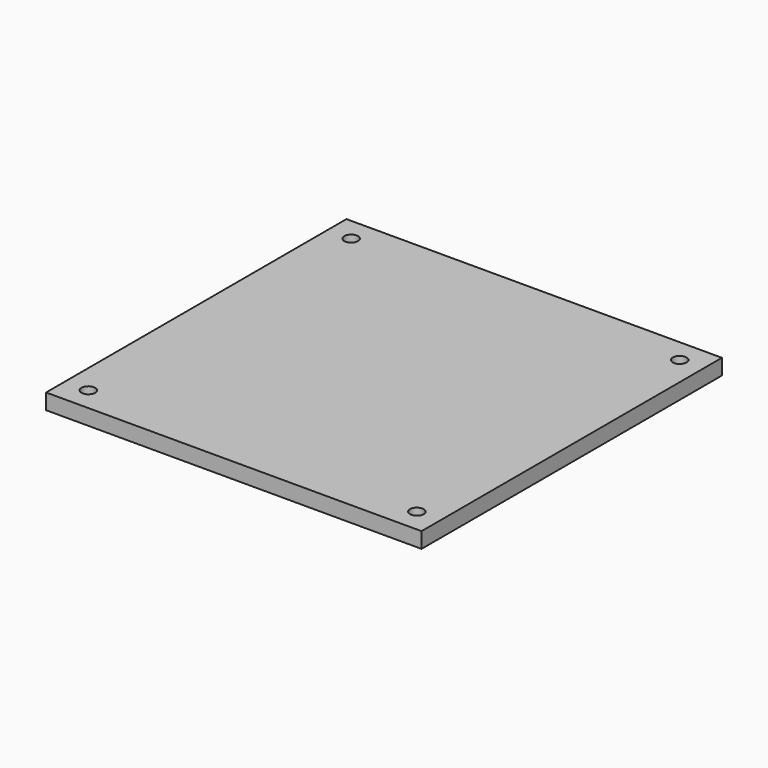
from build123d import *

# Parameters (mm, degrees)
F0_W     = 304.8
F0_H     = 304.8
F1_DEPTH = 12.7
F3_DEPTH = 12.7
F5_D     = 11.1125


with BuildPart() as f1:
    # F0 (on Top) → F1 (new body)
    with BuildSketch(Plane.XY):
        Rectangle(F0_W, F0_H)
    extrude(amount=F1_DEPTH)

    # F2 (on face) → F3 (join)
    with BuildSketch(Plane(origin=(0, 0, 0), x_dir=(1, 0, 0), z_dir=(0, 0, -1))):
        with BuildLine():
            Line((98.425, 104.775), (-98.425, 104.775))
            ThreePointArc((-98.425, 104.775), (-102.915128, 102.915128), (-104.775, 98.425))
            Line((-104.775, 98.425), (-104.775, -98.425))
            ThreePointArc((-104.775, -98.425), (-102.915128, -102.915128), (-98.425, -104.775))
            Line((-98.425, -104.775), (98.425, -104.775))
            ThreePointArc((98.425, -104.775), (102.915128, -102.915128), (104.775, -98.425))
            Line((104.775, -98.425), (104.775, 98.425))
            ThreePointArc((104.775, 98.425), (102.915128, 102.915128), (98.425, 104.775))
        make_face()
    extrude(amount=F3_DEPTH)

    # F5 (through all)
    with Locations(Plane.XY.offset(12.7)):
        with Locations((-133.35, 133.35), (133.35, 133.35), (133.35, -133.35), (-133.35, -133.35)):
            Hole(F5_D / 2)


solid = f1.part
